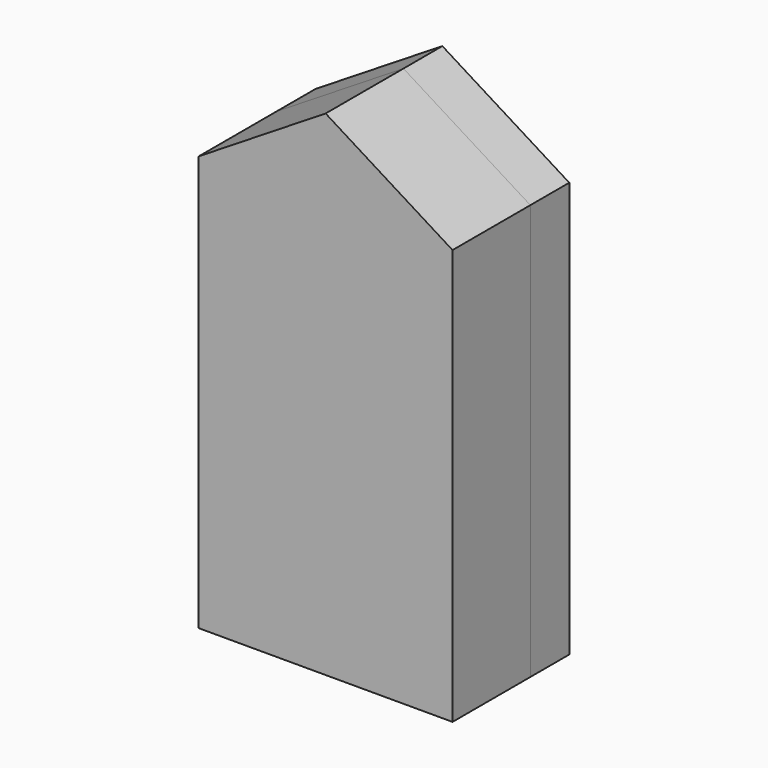
from build123d import *

# Parameters (mm, degrees)
F1_DEPTH = 25.4
F2_DEPTH = 12.7


with BuildPart() as f1:
    # F0 (on Front) → F1 (new body)
    with BuildSketch(Plane.XZ):
        Polygon((0, 54.23288), (33.13363, 54.23288), (0, 74.863255), (-33.13363, 54.23288), align=None)
        Polygon((-33.13363, -54.23288), (33.13363, -54.23288), (33.13363, 54.23288), (0, 54.23288), (-33.13363, 54.23288), align=None)
    extrude(amount=-F1_DEPTH)


with BuildPart() as f2:
    # F1_face (on face) → F2 (new body, symmetric)
    with BuildSketch(Plane(origin=(0, 0, 5.306892), x_dir=(1, 0, 0), z_dir=(0, -1, 0))):
        Polygon((33.13363, 48.925988), (0, 69.556363), (-33.13363, 48.925988), (-33.13363, -59.539773), (33.13363, -59.539773), align=None)
    extrude(amount=F2_DEPTH, both=True)


solid = Compound([f1.part, f2.part])
